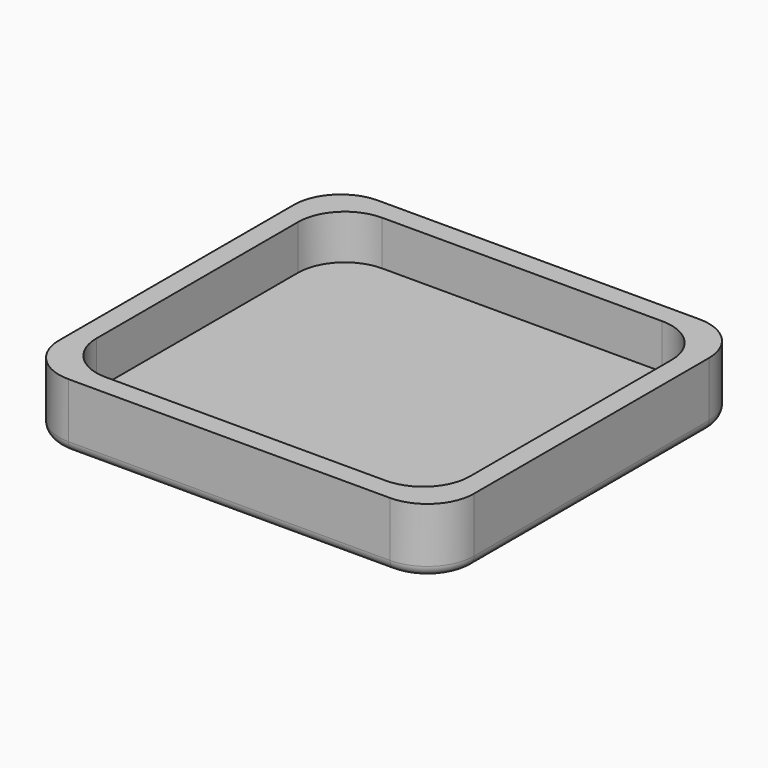
from build123d import *

# Parameters (mm, degrees)
F0_W     = 40
F0_H     = 37.3
F0_W_2   = 36
F0_H_2   = 33.3
F1_DEPTH = 6.3
F2_DEPTH = 2
F3_R     = 4.5
F4_R     = 1


with BuildPart() as f1:
    # F0 (on Top) → F1 (new body)
    with BuildSketch(Plane.XY):
        Rectangle(F0_W, F0_H)
        Rectangle(F0_W_2, F0_H_2, mode=Mode.SUBTRACT)
    extrude(amount=F1_DEPTH)

    # F0 (on Top) → F2 (join)
    with BuildSketch(Plane.XY):
        Rectangle(F0_W_2, F0_H_2)
    extrude(amount=F2_DEPTH)

    # F3
    f3_edges = [f1.edges().sort_by_distance(p)[0] for p in [
        (-18, 16.65, 4.15),
        (18, 16.65, 4.15),
        (18, -16.65, 4.15),
        (-18, -16.65, 4.15),
        (-20, -18.65, 3.15),
        (20, -18.65, 3.15),
        (20, 18.65, 3.15),
        (-20, 18.65, 3.15),
    ]]
    fillet(f3_edges, radius=F3_R)

    # F4
    f4_edges = [f1.edges().sort_by_distance(p)[0] for p in [
        (0, -18.65, 0),
    ]]
    fillet(f4_edges, radius=F4_R)


solid = f1.part
